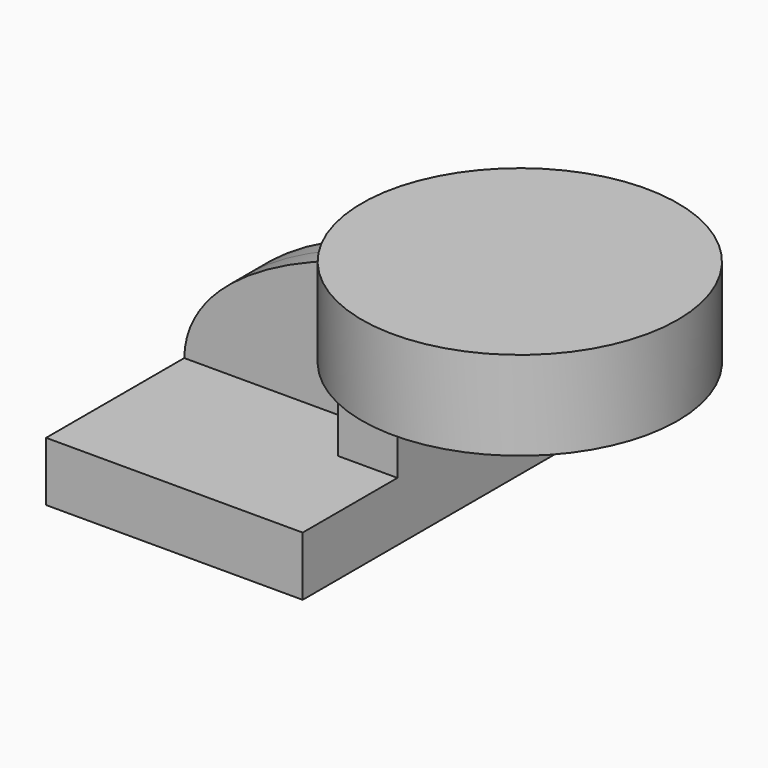
from build123d import *

# Parameters (mm, degrees)
F1_DEPTH = 63.5
F0_W     = 17.9729990546
F0_H     = 19.05
F2_DEPTH = 25.4
F3_DEPTH = 7.9375


with BuildPart() as f1:
    # F0 (on Front) → F1 (new body, symmetric)
    with BuildSketch(Plane.XZ):
        Polygon((22.225, 9.525), (-41.275, 9.525), (-41.275, -9.525), (41.275, -9.525), (41.275, 9.525), align=None)
    extrude(amount=F1_DEPTH, both=True)

    # F0 (on Front) → F2 (join, symmetric)
    with BuildSketch(Plane.XZ):
        with BuildLine():
            Line((22.225, 27.0002), (22.225, 9.525))
            Line((22.225, 9.525), (41.275, 9.525))
            Line((41.275, 9.525), (41.275, 27.0002))
            ThreePointArc((41.275, 27.0002), (45.9246798487, 38.2255201513), (57.15, 42.8752))
            Line((57.15, 42.8752), (60.325, 42.8752))
            Line((60.325, 42.8752), (60.325, 61.9252))
            Line((60.325, 61.9252), (57.15, 61.9252))
            add(Edge.make_bspline(
                [(54.2615577604, 61.8055519797), (55.2288783664, 61.8546366141), (56.1919158349, 61.8945538675), (57.15, 61.9252)],
                knots=[109.0649355022, 109.0649355022, 109.0649355022, 109.0649355022, 111.5045361635, 111.5045361635, 111.5045361635, 111.5045361635], degree=3))
            ThreePointArc((54.2615577604, 61.8055519797), (31.4533614045, 50.6526499765), (22.225, 27.0002))
        make_face()
        with Locations((69.3114995273, 52.4002)):
            Rectangle(F0_W, F0_H)
    extrude(amount=F2_DEPTH, both=True)

    # F0 (on Front) → F3 (join, symmetric)
    with BuildSketch(Plane.XZ):
        with BuildLine():
            add(Edge.make_bspline(
                [(-41.275, 9.525), (-40.7890449991, 39.0945706255), (11.0164639317, 59.6111713264), (54.2615577604, 61.8055519797)],
                knots=[0, 0, 0, 0, 109.0649355022, 109.0649355022, 109.0649355022, 109.0649355022], degree=3))
            Line((-41.275, 9.525), (22.225, 9.525))
            Line((22.225, 9.525), (22.225, 27.0002))
            ThreePointArc((22.225, 27.0002), (31.4533614045, 50.6526499765), (54.2615577604, 61.8055519797))
        make_face()
    extrude(amount=F3_DEPTH, both=True)

    # F0 (on Front) → F4 (revolve)
    with BuildSketch(Plane.XZ):
        Polygon((60.325, 66.675), (60.325, 61.9252), (78.2979990546, 61.9252), (78.2979990546, 42.8752), (60.325, 42.8752), (60.325, 38.1), (111.125, 38.1), (111.125, 66.675), align=None)
    revolve(axis=Axis((60.325, 0, 52.3875), (0, 0, 1)))


solid = f1.part
